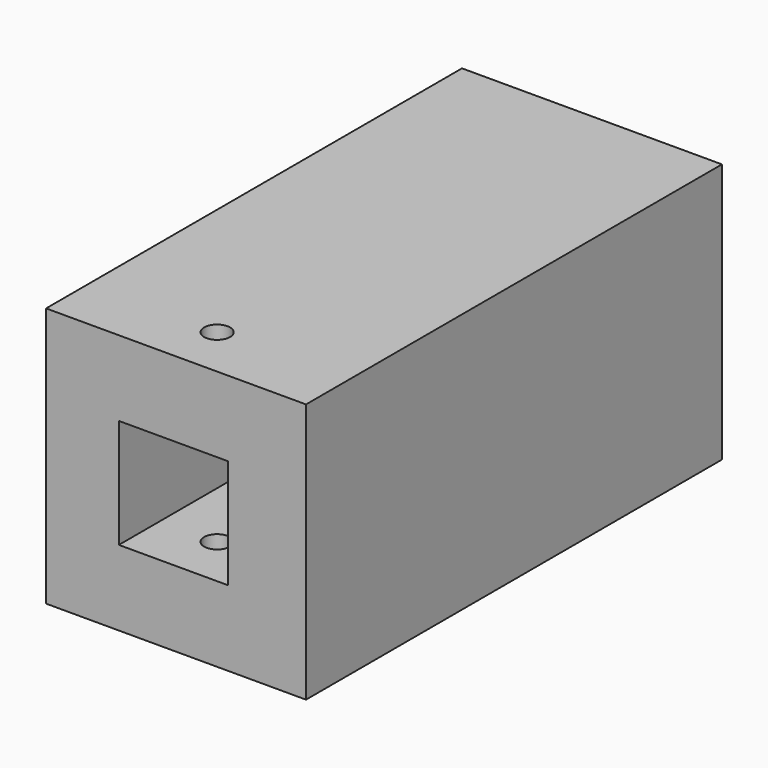
from build123d import *

# Parameters (mm, degrees)
F0_W          = 63.5
F0_H          = 127
F1_DEPTH      = 63.5
F2_W          = 26.67
F2_H          = 26.67
F3_DEPTH      = 127.001
F4_R          = 3.175
F5_DEPTH      = 45.086
F5_DEPTH_BACK = 25.4


with BuildPart() as f1:
    # F0 (on Top) → F1 (new body)
    with BuildSketch(Plane.XY):
        with Locations((1.295127, 30.201528)):
            Rectangle(F0_W, F0_H)
    extrude(amount=F1_DEPTH)

    # F2 (on face) → F3 (cut, through all)
    with BuildSketch(Plane.XZ.offset(33.298472)):
        with Locations((0.660127, 31.75)):
            Rectangle(F2_W, F2_H)
    extrude(amount=-F3_DEPTH, mode=Mode.SUBTRACT)

    # F4 (on face) → F5 (cut, two sides)
    with BuildSketch(Plane(origin=(0, 0, 45.085), x_dir=(1, 0, 0), z_dir=(0, 0, -1))) as f5_sk:
        with Locations((1.168133, 20.599107)):
            Circle(F4_R)
    extrude(amount=F5_DEPTH, mode=Mode.SUBTRACT)
    extrude(f5_sk.sketch, amount=-F5_DEPTH_BACK, mode=Mode.SUBTRACT)


solid = f1.part
